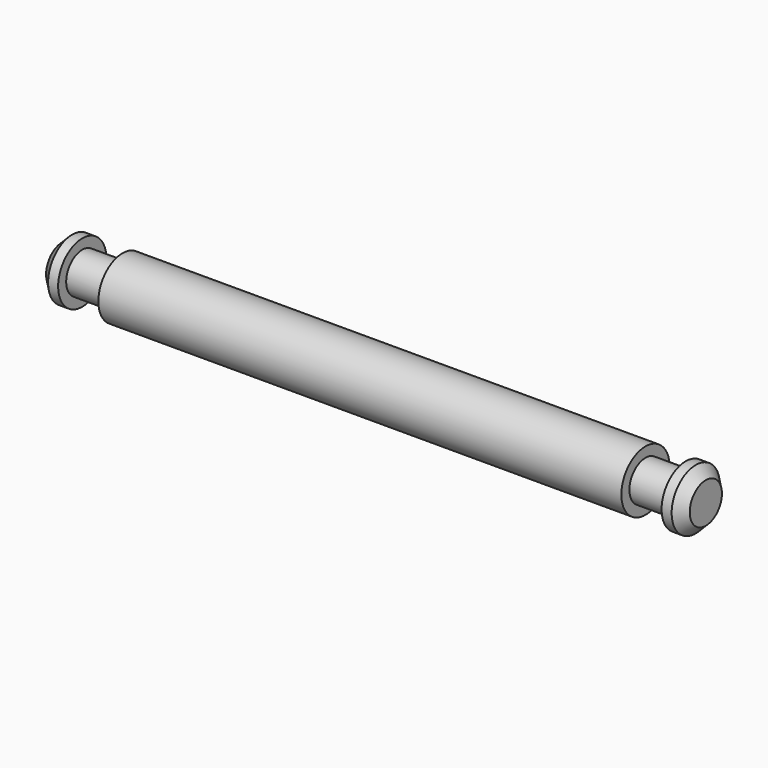
from build123d import *


with BuildPart() as f1:
    # F0 (on Front) → F1 (revolve)
    with BuildSketch(Plane.XZ):
        Polygon((-110, 0), (50, 0), (210, 0), (210, 10), (205, 15), (200, 15), (200, 10), (180, 10), (180, 15), (-80, 15), (-80, 10), (-100, 10), (-100, 15), (-105, 15), (-110, 10), align=None)
    revolve(axis=Axis((-30, 0, 0), (1, 0, 0)))


solid = f1.part
